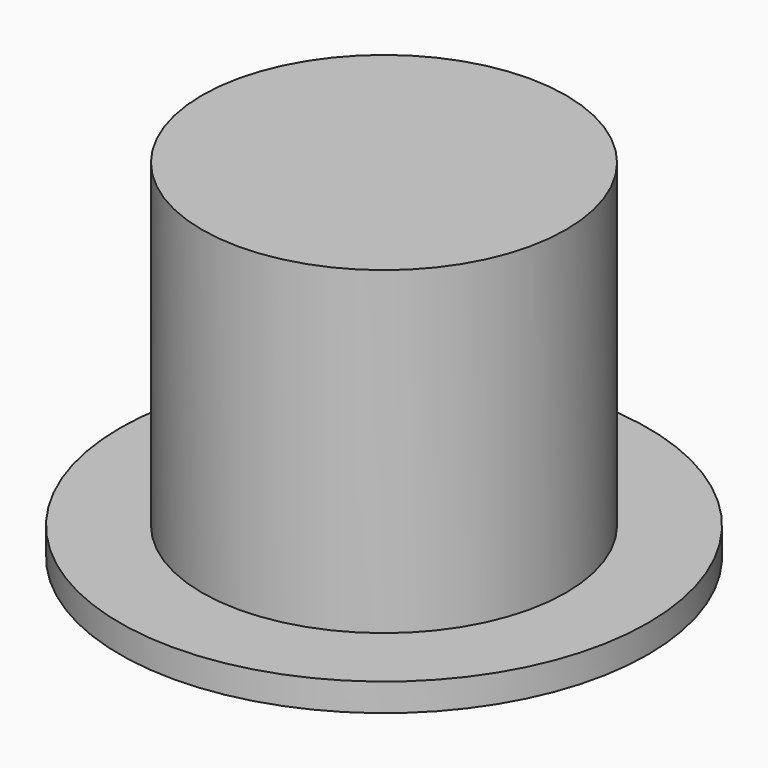
from build123d import *

# Parameters (mm, degrees)
F0_R     = 13.1
F0_R_2   = 11.5
F1_DEPTH = 25
F0_R_3   = 19
F2_DEPTH = 2
F3_DEPTH = 23


with BuildPart() as f1:
    # F0 (on Top) → F1 (new body)
    with BuildSketch(Plane.XY):
        Circle(F0_R)
        Circle(F0_R_2, mode=Mode.SUBTRACT)
        Circle(F0_R_2)
    extrude(amount=F1_DEPTH)

    # F0 (on Top) → F2 (join)
    with BuildSketch(Plane.XY):
        Circle(F0_R_3)
        Circle(F0_R, mode=Mode.SUBTRACT)
    extrude(amount=F2_DEPTH)

    # F0 (on Top) → F3 (cut)
    with BuildSketch(Plane.XY):
        Circle(F0_R_2)
    extrude(amount=F3_DEPTH, mode=Mode.SUBTRACT)


solid = f1.part
